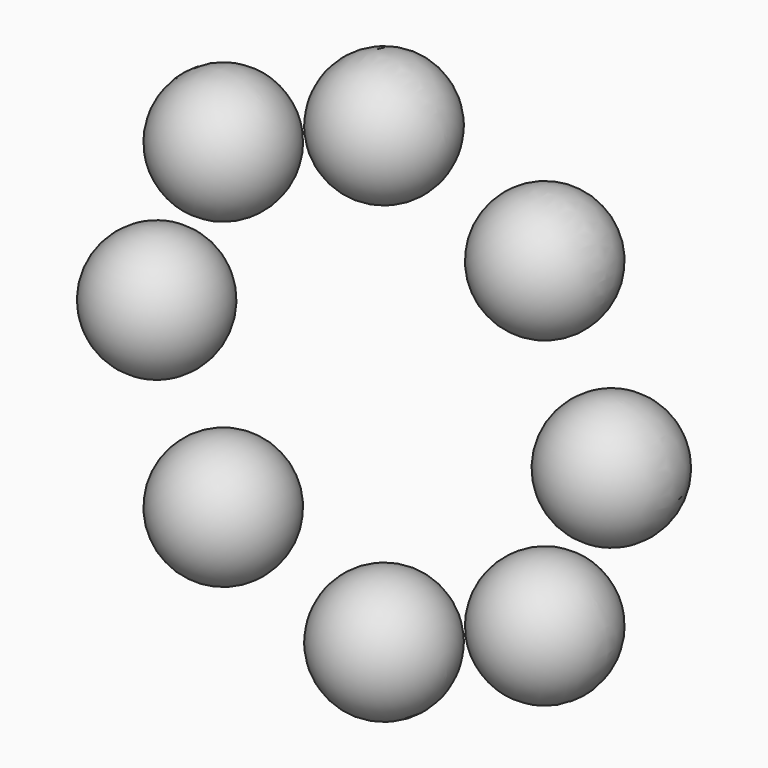
from build123d import *

# Parameters (mm, degrees)
F3_COUNT = 8


with BuildPart() as f1:
    # F0 (on Front) → F1 (revolve)
    with BuildSketch(Plane.XZ):
        with BuildLine():
            Line((-7, 0), (7, 0))
            ThreePointArc((7, 0), (0, 7), (-7, 0))
        make_face()
    revolve(axis=Axis((0, 0, 0), (1, 0, 0)))


with BuildPart() as f3_1:
    # F3: instance of F1
    add(f1.part.rotate(Axis((0, 0, -25.5), (0, -1, 0)), 1 * 360 / F3_COUNT))


with BuildPart() as f3_2:
    # F3: instance of F1
    add(f1.part.rotate(Axis((0, 0, -25.5), (0, -1, 0)), 2 * 360 / F3_COUNT))


with BuildPart() as f3_3:
    # F3: instance of F1
    add(f1.part.rotate(Axis((0, 0, -25.5), (0, -1, 0)), 3 * 360 / F3_COUNT))


with BuildPart() as f3_4:
    # F3: instance of F1
    add(f1.part.rotate(Axis((0, 0, -25.5), (0, -1, 0)), 4 * 360 / F3_COUNT))


with BuildPart() as f3_5:
    # F3: instance of F1
    add(f1.part.rotate(Axis((0, 0, -25.5), (0, -1, 0)), 5 * 360 / F3_COUNT))


with BuildPart() as f3_6:
    # F3: instance of F1
    add(f1.part.rotate(Axis((0, 0, -25.5), (0, -1, 0)), 6 * 360 / F3_COUNT))


with BuildPart() as f3_7:
    # F3: instance of F1
    add(f1.part.rotate(Axis((0, 0, -25.5), (0, -1, 0)), 7 * 360 / F3_COUNT))


solid = Compound([f1.part, f3_1.part, f3_2.part, f3_3.part, f3_4.part, f3_5.part, f3_6.part, f3_7.part])
